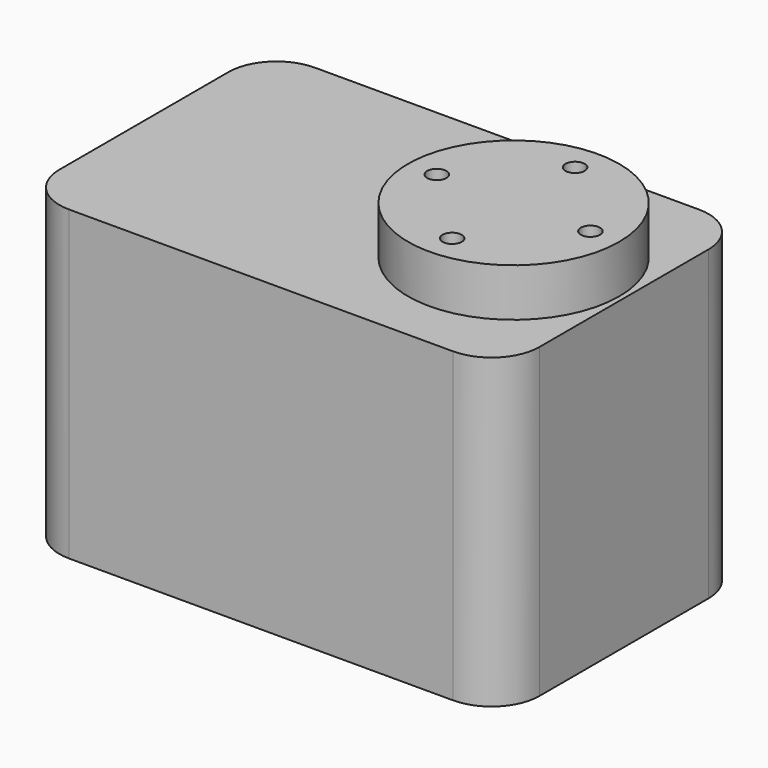
from build123d import *

# Parameters (mm, degrees)
F0_W     = 50
F0_H     = 32
F1_DEPTH = 32
F2_R     = 5
F3_R     = 11
F4_DEPTH = 5
F5_R     = 1
F6_DEPTH = 5


with BuildPart() as f1:
    # F0 (on Top) → F1 (new body)
    with BuildSketch(Plane.XY):
        Rectangle(F0_W, F0_H)
    extrude(amount=F1_DEPTH)

    # F2
    f2_edges = [f1.edges().sort_by_distance(p)[0] for p in [
        (-25, -16, 16),
        (-25, 16, 16),
        (25, -16, 16),
        (25, 16, 16),
    ]]
    fillet(f2_edges, radius=F2_R)

    # F3 (on face) → F4 (join)
    with BuildSketch(Plane.XY.offset(32)):
        with Locations((13.5, 0)):
            Circle(F3_R)
    extrude(amount=F4_DEPTH)

    # F5 (on face) → F6 (cut)
    with BuildSketch(Plane.XY.offset(37)):
        with Locations((21.5, 0)):
            Circle(F5_R)
        with Locations((13.5, 8)):
            Circle(F5_R)
        with Locations((5.5, 0)):
            Circle(F5_R)
        with Locations((13.5, -8)):
            Circle(F5_R)
    extrude(amount=-F6_DEPTH, mode=Mode.SUBTRACT)


solid = f1.part
